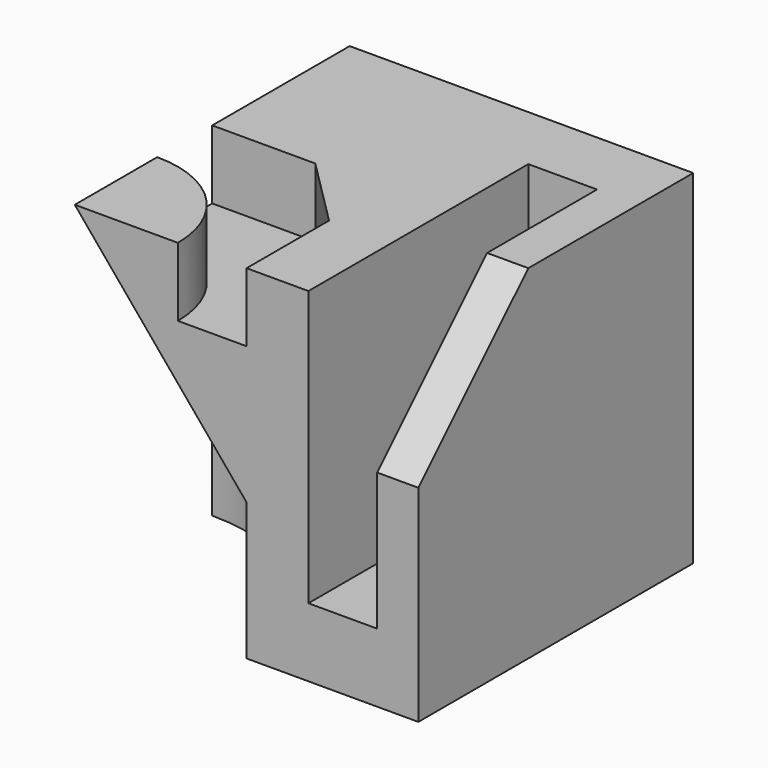
from build123d import *

# Parameters (mm, degrees)
F0_W      = 50
F0_H      = 50
F1_DEPTH  = 50
F4_DEPTH  = 10
F5_SIZE   = 10
F6_W      = 10
F6_H      = 40
F8_DEPTH  = 40
F9_R      = 10
F11_DEPTH = 6


with BuildPart() as f1:
    # F0 (on Top) → F1 (new body)
    with BuildSketch(Plane.XY):
        with Locations((-6.196748, 1.000199)):
            Rectangle(F0_W, F0_H)
    extrude(amount=F1_DEPTH)

    # F3 (on face) → F4 (cut)
    with BuildSketch(Plane.XY.offset(50)):
        with BuildLine():
            ThreePointArc((-31.196748, -8.999801), (-20.590146, -13.393199), (-16.196748, -23.999801))
            Line((-16.196748, -23.999801), (-6.196748, -23.999801))
            Line((-6.196748, -23.999801), (-6.196748, 1.000199))
            Line((-6.196748, 1.000199), (-31.196748, 1.000199))
            Line((-31.196748, 1.000199), (-31.196748, -8.999801))
        make_face()
    extrude(amount=-F4_DEPTH, mode=Mode.SUBTRACT)

    # F5
    f5_edges = [f1.edges().sort_by_distance(p)[0] for p in [
        (-6.196748, 1.000199, 45),
    ]]
    chamfer(f5_edges, length=F5_SIZE)

    # F6 (on face) → F8 (cut, through all)
    with BuildSketch(Plane.XY.offset(50)):
        with Locations((7.803252, -3.999801)):
            Rectangle(F6_W, F6_H)
    extrude(amount=-F8_DEPTH, mode=Mode.SUBTRACT)

    # F9
    f9_edges = [f1.edges().sort_by_distance(p)[0] for p in [
        (7.803252, 16.000199, 10),
    ]]
    fillet(f9_edges, radius=F9_R)

    # F10 (on face) → F11 (cut)
    with BuildSketch(Plane.YZ.offset(18.803252)):
        Polygon((-3.999801, 50), (-23.999801, 50), (-23.999801, 30), align=None)
    extrude(amount=-F11_DEPTH, mode=Mode.SUBTRACT)

    # F12 (on face) → F13 (revolve, cut)
    with BuildSketch(Plane.XZ.offset(23.999801)):
        Polygon((-6.196748, 20), (-31.196748, 50), (-31.196748, 0), (-6.196748, 0), align=None)
    revolve(axis=Axis((-31.196748, -23.999801, 25), (0, 0, 1)), mode=Mode.SUBTRACT)


solid = f1.part
